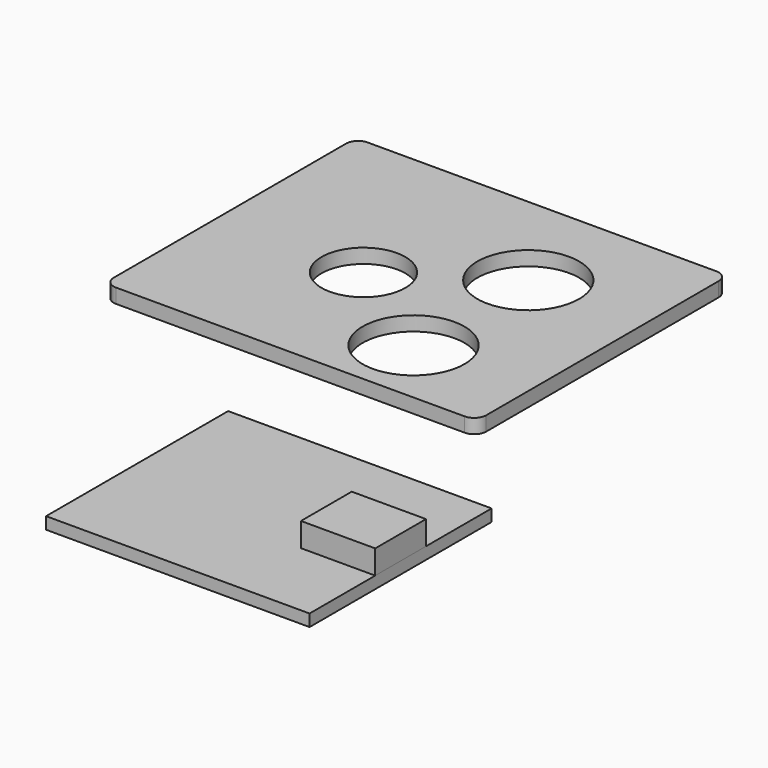
from build123d import *

# Parameters (mm, degrees)
F5_W     = 31.1
F5_H     = 26.24999962
F5_R     = 3.5
F5_R_2   = 4.25
F6_DEPTH = 1.2
F7_R     = 1
F1_W     = 6.65
F1_H     = 19
F1_W_2   = 6.2
F1_H_2   = 5.3
F8_DEPTH = 1
F9_START = 1
F9_DEPTH = 2


with BuildPart() as f6:
    # F5 (on offset) → F6 (new body)
    with BuildSketch(Plane.XY.offset(20)):
        with Locations((3.3, 1.37499981)):
            Rectangle(F5_W, F5_H)
        Circle(F5_R, mode=Mode.SUBTRACT)
        with Locations((8.9799777283, -6)):
            Circle(F5_R_2, mode=Mode.SUBTRACT)
        with Locations((9.074924206, 5.8554035433)):
            Circle(F5_R_2, mode=Mode.SUBTRACT)
    extrude(amount=F6_DEPTH)

    # F7
    f7_edges = [f6.edges().sort_by_distance(p)[0] for p in [
        (-12.25, 14.5, 20.6),
        (-12.25, -11.75, 20.6),
        (18.85, 14.5, 20.6),
        (18.85, -11.75, 20.6),
    ]]
    fillet(f7_edges, radius=F7_R)


with BuildPart() as f8:
    # F1 (on Top) → F8 (new body)
    with BuildSketch(Plane.XY):
        with Locations((-15.575, 0)):
            Rectangle(F1_W, F1_H)
        Rectangle(F1_W_2, F1_H_2)
        Polygon((3.1, -9.5), (3.1, -2.65), (-3.1, -2.65), (-3.1, 2.65), (3.1, 2.65), (3.1, 9.5), (-12.25, 9.5), (-12.25, -9.5), align=None)
    extrude(amount=F8_DEPTH)


with BuildPart() as f9:
    # F1 (on Top) → F9 (new body)
    with BuildSketch(Plane.XY.offset(F9_START)):
        Rectangle(F1_W_2, F1_H_2)
    extrude(amount=F9_DEPTH)


solid = Compound([f6.part, f8.part, f9.part])
